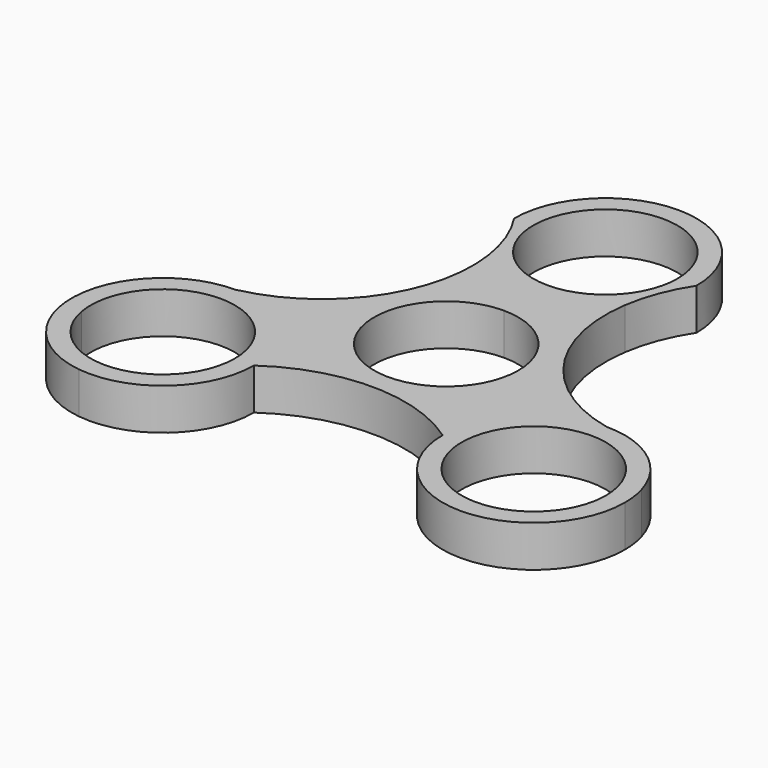
from build123d import *

# Parameters (mm, degrees)
F1_DEPTH = 6.35


with BuildPart() as f1:
    # F0 (on Top) → F1 (new body)
    with BuildSketch(Plane.XY):
        with BuildLine():
            ThreePointArc((14.4530400949, -18.7555385716), (18.5466634494, -8.8807419017), (28.4230390548, -4.7909293948))
            ThreePointArc((28.4230390548, -4.7909293948), (14.2946821069, 4.6447264279), (10.4329995433, 21.1894983704))
            ThreePointArc((10.4329995433, 21.1894983704), (5.7171930278, 17.7334473726), (0, 16.51))
            ThreePointArc((0, 16.51), (-5.7148240724, 17.7323850928), (-10.4295456747, 21.1856212139))
            ThreePointArc((-10.4295456747, 21.1856212139), (-14.2959554356, 4.6405301154), (-28.4323762345, -4.7855385716))
            ThreePointArc((-28.4323762345, -4.7855385716), (-18.5540945013, -8.8772568385), (-14.4623762345, -18.7555385716))
            ThreePointArc((-14.4623762345, -18.7555385716), (-0.0046680698, -14.1926639702), (14.4530400949, -18.7555385716))
        make_face()
        with BuildLine():
            ThreePointArc((13.97, 0), (-9.8782817332, -9.8782817332), (0, 13.97))
            ThreePointArc((0, 13.97), (9.8782817332, 9.8782817332), (13.97, 0))
        make_face(mode=Mode.SUBTRACT)
        with BuildLine():
            ThreePointArc((13.97, 0), (9.8782817332, 9.8782817332), (0, 13.97))
            ThreePointArc((0, 13.97), (-9.8782817332, -9.8782817332), (13.97, 0))
        make_face()
        with BuildLine():
            ThreePointArc((11.049, 0), (-7.8128228253, -7.8128228253), (0, 11.049))
            ThreePointArc((0, 11.049), (7.8128228253, 7.8128228253), (11.049, 0))
        make_face(mode=Mode.SUBTRACT)
        with BuildLine():
            ThreePointArc((13.97, 30.48), (9.8782817686, 40.3582816978), (1.001e-07, 44.45))
            ThreePointArc((1.001e-07, 44.45), (-9.8782816978, 40.3582817686), (-13.97, 30.48))
            ThreePointArc((-13.97, 30.48), (-11.6936695167, 26.0255976379), (-10.4295456747, 21.1856212139))
            ThreePointArc((-10.4295456747, 21.1856212139), (-5.7148240724, 17.7323850928), (0, 16.51))
            ThreePointArc((0, 16.51), (5.7171930278, 17.7334473726), (10.4329995433, 21.1894983704))
            ThreePointArc((10.4329995433, 21.1894983704), (11.6961232837, 26.0271518067), (13.97, 30.48))
        make_face()
        with BuildLine():
            ThreePointArc((11.049, 30.48), (7.8128228253, 22.6671771747), (0, 19.431))
            ThreePointArc((0, 19.431), (-7.8128228253, 38.2928228253), (11.049, 30.48))
        make_face(mode=Mode.SUBTRACT)
        with BuildLine():
            ThreePointArc((39.281787899, -20.8024911839), (40.6774331292, -17.9206287284), (41.8619925016, -14.9457714353))
            ThreePointArc((41.8619925016, -14.9457714353), (36.8451273738, -7.615108279), (28.4230390548, -4.7909293948))
            ThreePointArc((28.4230390548, -4.7909293948), (18.5466634494, -8.8807419017), (14.4530400949, -18.7555385716))
            ThreePointArc((14.4530400949, -18.7555385716), (19.1913561647, -29.2460107496), (30.1973886441, -32.6177899171))
            ThreePointArc((30.1973886441, -32.6177899171), (32.4671854143, -30.3592551172), (34.5685014533, -27.9431781885))
            ThreePointArc((34.5685014533, -27.9431781885), (18.6767162857, -13.5561629755), (39.4720390548, -18.7609293948))
            ThreePointArc((39.4720390548, -18.7609293948), (39.4243734507, -19.7861330381), (39.281787899, -20.8024911839))
        make_face()
        with BuildLine():
            ThreePointArc((-28.4323762345, -4.7855385716), (-36.8496681134, -7.6060947548), (-41.8680416453, -14.9288173943))
            ThreePointArc((-41.8680416453, -14.9288173943), (-40.6866093102, -17.8997855528), (-39.2946720361, -20.7781435545))
            ThreePointArc((-39.2946720361, -20.7781435545), (-29.4479781957, -7.7533136305), (-17.3833762345, -18.7555385716))
            ThreePointArc((-17.3833762345, -18.7555385716), (-23.2218639095, -28.4987907141), (-34.5670059405, -27.9450281858))
            ThreePointArc((-34.5670059405, -27.9450281858), (-32.4688204098, -30.3575065049), (-30.2026472493, -32.6129207391))
            ThreePointArc((-30.2026472493, -32.6129207391), (-19.2011733355, -29.2410425194), (-14.4623762345, -18.7555385716))
            ThreePointArc((-14.4623762345, -18.7555385716), (-18.5540945013, -8.8772568385), (-28.4323762345, -4.7855385716))
        make_face()
        with BuildLine():
            ThreePointArc((-39.2946720361, -20.7781435545), (-40.6866093102, -17.8997855528), (-41.8680416453, -14.9288173943))
            ThreePointArc((-41.8680416453, -14.9288173943), (-40.0937227872, -26.4479956939), (-30.2026472493, -32.6129207391))
            ThreePointArc((-30.2026472493, -32.6129207391), (-32.4688204098, -30.3575065049), (-34.5670059405, -27.9450281858))
            ThreePointArc((-34.5670059405, -27.9450281858), (-37.6554412352, -24.839572841), (-39.2946720361, -20.7781435545))
        make_face()
        with BuildLine():
            ThreePointArc((42.3930390548, -18.7609293948), (42.2596405099, -16.834959464), (41.8619925016, -14.9457714353))
            ThreePointArc((41.8619925016, -14.9457714353), (40.6774331292, -17.9206287284), (39.281787899, -20.8024911839))
            ThreePointArc((39.281787899, -20.8024911839), (37.6443812955, -24.8475744707), (34.5685014533, -27.9431781885))
            ThreePointArc((34.5685014533, -27.9431781885), (32.4671854143, -30.3592551172), (30.1973886441, -32.6177899171))
            ThreePointArc((30.1973886441, -32.6177899171), (38.9099014016, -27.9905890916), (42.3930390548, -18.7609293948))
        make_face()
    extrude(amount=F1_DEPTH)


solid = f1.part
